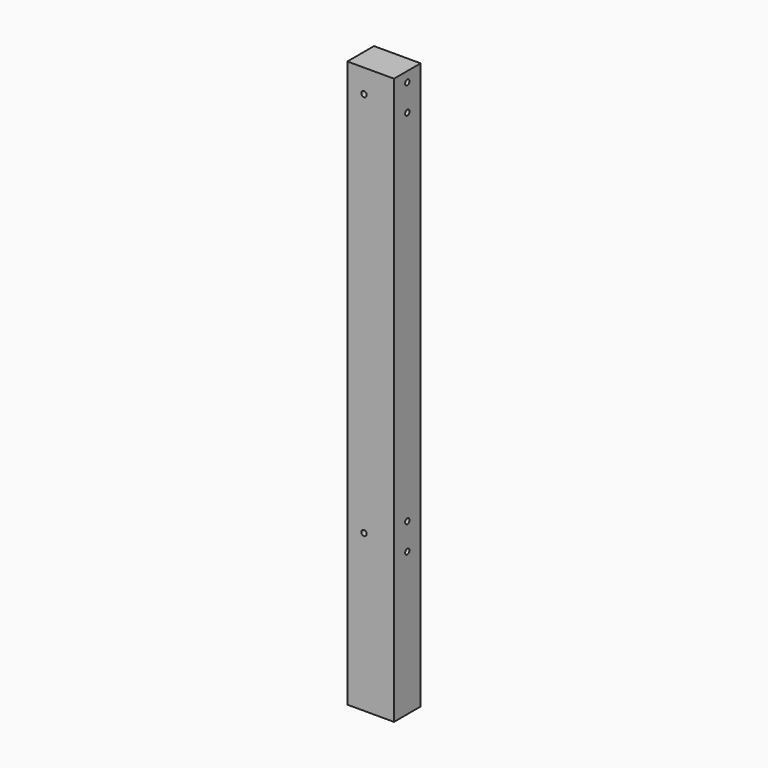
from build123d import *

# Parameters (mm, degrees)
F0_W           = 70
F0_H           = 50
F1_DEPTH       = 850
F3_D           = 8
F3_DEPTH       = 22
F3_TIP         = 2.4034424761
F5_D           = 8.2
F5_CSINK_D     = 17.3
F5_CSINK_ANGLE = 90


with BuildPart() as f1:
    # F0 (on Top) → F1 (new body)
    with BuildSketch(Plane.XY):
        Rectangle(F0_W, F0_H)
    extrude(amount=F1_DEPTH)

    # F3
    with Locations(Plane.YZ.offset(35)):
        with Locations((0, 215), (0, 255), (0, 795), (0, 835)):
            Hole(F3_D / 2, depth=F3_DEPTH)
            with Locations((0, 0, -(F3_DEPTH + F3_TIP / 2))):  # 118° drill point
                Cone(0, F3_D / 2, F3_TIP, mode=Mode.SUBTRACT)

    # F5 (through all)
    with Locations(Plane(origin=(0, 25, 0), x_dir=(-1, 0, 0), z_dir=(0, 1, 0))):
        with Locations((10, 235), (10, 815)):
            CounterSinkHole(F5_D / 2, F5_CSINK_D / 2, counter_sink_angle=F5_CSINK_ANGLE)


solid = f1.part
